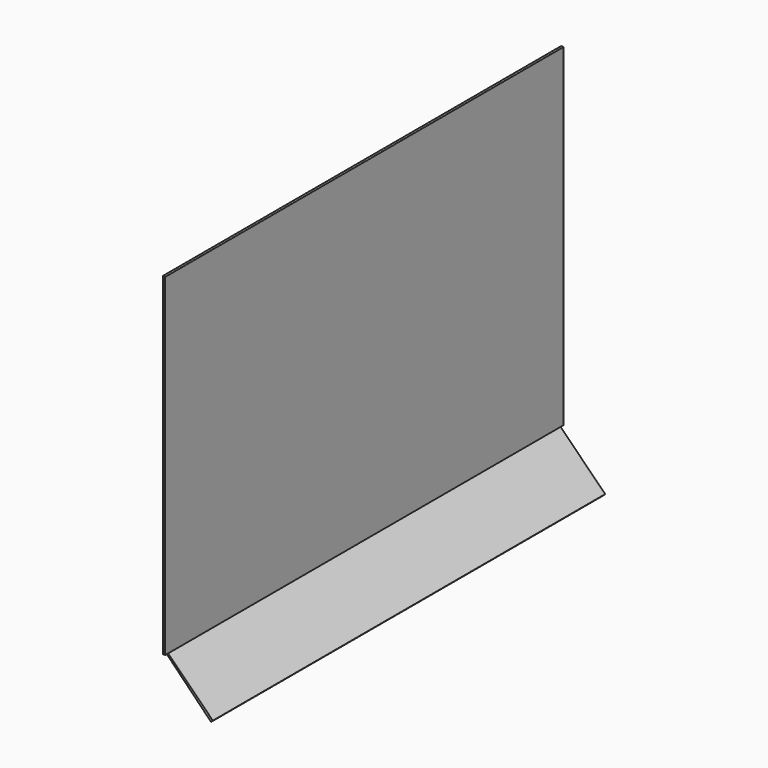
from build123d import *

# Parameters (mm, degrees)
F0_W     = 4
F0_H     = 543
F1_DEPTH = 800
F2_W     = 6
F2_H     = 543
F3_DEPTH = 4


with BuildPart() as f1:
    # F0 (on Front) → F1 (new body)
    with BuildSketch(Plane.XZ):
        with Locations((2, 271.5)):
            Rectangle(F0_W, F0_H)
        Polygon((4, 0), (0, 0), (73.972428, -75.628935), (76.831998, -72.831998), align=None)
    extrude(amount=F1_DEPTH)

    # F2 (on face) → F3 (join)
    with BuildSketch(Plane.YZ.offset(4)):
        with Locations((-803, 271.5)):
            Rectangle(F2_W, F2_H)
        with Locations((3, 271.5)):
            Rectangle(F2_W, F2_H)
    extrude(amount=-F3_DEPTH)


solid = f1.part
